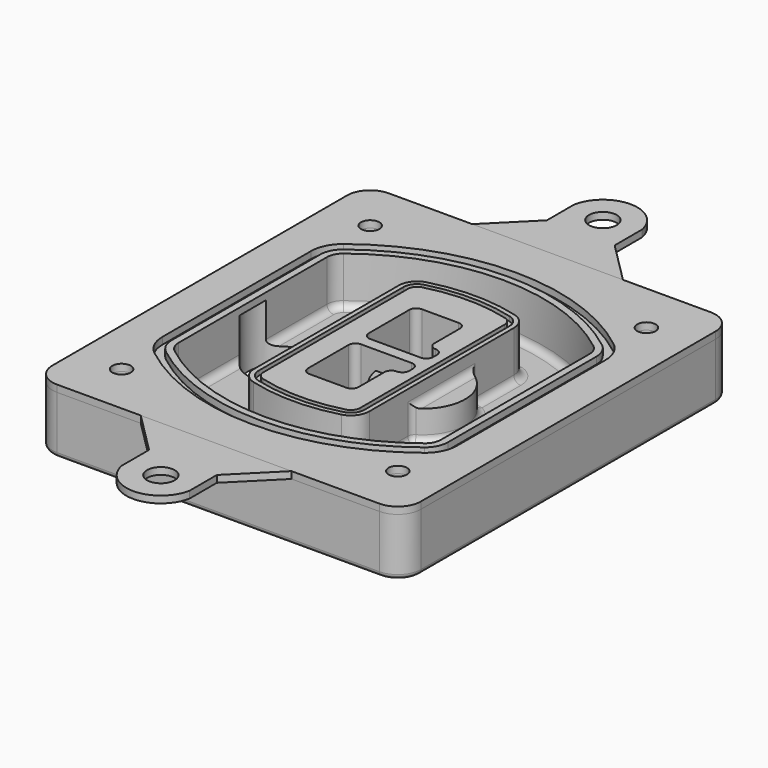
from build123d import *

# Parameters (mm, degrees)
F0_R      = 4
F1_DEPTH  = 25
F2_DEPTH  = 3
F3_DEPTH  = 18
F5_DEPTH  = 21
F6_DEPTH  = 2
F8_DEPTH  = 20
F9_DEPTH  = 16
F10_DEPTH = 25
F7_R      = 6
F7_R_2    = 4
F11_DEPTH = 6
F13_DEPTH = 9
F14_R     = 3
F15_R     = 2
F16_R     = 6
F17_DEPTH = 3
F18_DEPTH = 3


with BuildPart() as f1:
    # F0 (on Top) → F1 (new body)
    with BuildSketch(Plane.XY):
        with BuildLine():
            ThreePointArc((-80, -80), (-77.0710678119, -87.0710678119), (-70, -90))
            Line((-70, -90), (70, -90))
            ThreePointArc((70, -90), (77.0710678119, -87.0710678119), (80, -80))
            Line((80, -80), (80, 80))
            ThreePointArc((80, 80), (77.0710678119, 87.0710678119), (70, 90))
            Line((70, 90), (-70, 90))
            ThreePointArc((-70, 90), (-77.0710678119, 87.0710678119), (-80, 80))
            Line((-80, 80), (-80, -80))
        make_face()
        with Locations((-60, -67.5)):
            Circle(F0_R, mode=Mode.SUBTRACT)
        with Locations((60, -67.5)):
            Circle(F0_R, mode=Mode.SUBTRACT)
        with Locations((-60, 67.5)):
            Circle(F0_R, mode=Mode.SUBTRACT)
        with BuildLine():
            ThreePointArc((-64, 40.2934422872), (-62.5820384798, 46.4328484224), (-58.6153846154, 51.3286200352))
            ThreePointArc((-58.6153846154, 51.3286200352), (0, 71.5), (58.6153846154, 51.3286200352))
            ThreePointArc((58.6153846154, 51.3286200352), (62.5820384798, 46.4328484224), (64, 40.2934422872))
            Line((64, 40.2934422872), (64, -40.2934422872))
            ThreePointArc((64, -40.2934422872), (62.5820384798, -46.4328484224), (58.6153846154, -51.3286200352))
            ThreePointArc((58.6153846154, -51.3286200352), (0, -71.5), (-58.6153846154, -51.3286200352))
            ThreePointArc((-58.6153846154, -51.3286200352), (-62.5820384798, -46.4328484224), (-64, -40.2934422872))
            Line((-64, -40.2934422872), (-64, 40.2934422872))
        make_face(mode=Mode.SUBTRACT)
        with Locations((60, 67.5)):
            Circle(F0_R, mode=Mode.SUBTRACT)
        with BuildLine():
            ThreePointArc((58.6153846154, 51.3286200352), (0, 71.5), (-58.6153846154, 51.3286200352))
            ThreePointArc((-58.6153846154, 51.3286200352), (-62.5820384798, 46.4328484224), (-64, 40.2934422872))
            Line((-64, 40.2934422872), (-64, -40.2934422872))
            ThreePointArc((-64, -40.2934422872), (-62.5820384798, -46.4328484224), (-58.6153846154, -51.3286200352))
            ThreePointArc((-58.6153846154, -51.3286200352), (0, -71.5), (58.6153846154, -51.3286200352))
            ThreePointArc((58.6153846154, -51.3286200352), (62.5820384798, -46.4328484224), (64, -40.2934422872))
            Line((64, -40.2934422872), (64, 40.2934422872))
            ThreePointArc((64, 40.2934422872), (62.5820384798, 46.4328484224), (58.6153846154, 51.3286200352))
        make_face()
        with BuildLine():
            Line((-60, -40.2934422872), (-60, 40.2934422872))
            ThreePointArc((-60, 40.2934422872), (-58.9871703427, 44.6787323838), (-56.1538461538, 48.1757121072))
            ThreePointArc((-56.1538461538, 48.1757121072), (0, 67.5), (56.1538461538, 48.1757121072))
            ThreePointArc((56.1538461538, 48.1757121072), (58.9871703427, 44.6787323838), (60, 40.2934422872))
            Line((60, 40.2934422872), (60, -40.2934422872))
            ThreePointArc((60, -40.2934422872), (58.9871703427, -44.6787323838), (56.1538461538, -48.1757121072))
            ThreePointArc((56.1538461538, -48.1757121072), (0, -67.5), (-56.1538461538, -48.1757121072))
            ThreePointArc((-56.1538461538, -48.1757121072), (-58.9871703427, -44.6787323838), (-60, -40.2934422872))
        make_face(mode=Mode.SUBTRACT)
        with BuildLine():
            ThreePointArc((-56.1538461538, 48.1757121072), (-58.9871703427, 44.6787323838), (-60, 40.2934422872))
            Line((-60, 40.2934422872), (-60, -40.2934422872))
            ThreePointArc((-60, -40.2934422872), (-58.9871703427, -44.6787323838), (-56.1538461538, -48.1757121072))
            ThreePointArc((-56.1538461538, -48.1757121072), (0, -67.5), (56.1538461538, -48.1757121072))
            ThreePointArc((56.1538461538, -48.1757121072), (58.9871703427, -44.6787323838), (60, -40.2934422872))
            Line((60, -40.2934422872), (60, 40.2934422872))
            ThreePointArc((60, 40.2934422872), (58.9871703427, 44.6787323838), (56.1538461538, 48.1757121072))
            ThreePointArc((56.1538461538, 48.1757121072), (0, 67.5), (-56.1538461538, 48.1757121072))
        make_face()
        with BuildLine():
            ThreePointArc((54.3076923077, 45.8110311612), (56.2910192399, 43.3631453548), (57, 40.2934422872))
            Line((57, 40.2934422872), (57, -40.2934422872))
            ThreePointArc((57, -40.2934422872), (56.2910192399, -43.3631453548), (54.3076923077, -45.8110311612))
            ThreePointArc((54.3076923077, -45.8110311612), (0, -64.5), (-54.3076923077, -45.8110311612))
            ThreePointArc((-54.3076923077, -45.8110311612), (-56.2910192399, -43.3631453548), (-57, -40.2934422872))
            Line((-57, -40.2934422872), (-57, 40.2934422872))
            ThreePointArc((-57, 40.2934422872), (-56.2910192399, 43.3631453548), (-54.3076923077, 45.8110311612))
            ThreePointArc((-54.3076923077, 45.8110311612), (0, 64.5), (54.3076923077, 45.8110311612))
        make_face(mode=Mode.SUBTRACT)
        with BuildLine():
            Line((57, -40.2934422872), (57, 40.2934422872))
            ThreePointArc((57, 40.2934422872), (56.2910192399, 43.3631453548), (54.3076923077, 45.8110311612))
            ThreePointArc((54.3076923077, 45.8110311612), (0, 64.5), (-54.3076923077, 45.8110311612))
            ThreePointArc((-54.3076923077, 45.8110311612), (-56.2910192399, 43.3631453548), (-57, 40.2934422872))
            Line((-57, 40.2934422872), (-57, -40.2934422872))
            ThreePointArc((-57, -40.2934422872), (-56.2910192399, -43.3631453548), (-54.3076923077, -45.8110311612))
            ThreePointArc((-54.3076923077, -45.8110311612), (0, -64.5), (54.3076923077, -45.8110311612))
            ThreePointArc((54.3076923077, -45.8110311612), (56.2910192399, -43.3631453548), (57, -40.2934422872))
        make_face()
    extrude(amount=-F1_DEPTH)

    # F0 (on Top) → F2 (join)
    with BuildSketch(Plane.XY):
        with BuildLine():
            ThreePointArc((-56.1538461538, 48.1757121072), (-58.9871703427, 44.6787323838), (-60, 40.2934422872))
            Line((-60, 40.2934422872), (-60, -40.2934422872))
            ThreePointArc((-60, -40.2934422872), (-58.9871703427, -44.6787323838), (-56.1538461538, -48.1757121072))
            ThreePointArc((-56.1538461538, -48.1757121072), (0, -67.5), (56.1538461538, -48.1757121072))
            ThreePointArc((56.1538461538, -48.1757121072), (58.9871703427, -44.6787323838), (60, -40.2934422872))
            Line((60, -40.2934422872), (60, 40.2934422872))
            ThreePointArc((60, 40.2934422872), (58.9871703427, 44.6787323838), (56.1538461538, 48.1757121072))
            ThreePointArc((56.1538461538, 48.1757121072), (0, 67.5), (-56.1538461538, 48.1757121072))
        make_face()
        with BuildLine():
            ThreePointArc((54.3076923077, 45.8110311612), (56.2910192399, 43.3631453548), (57, 40.2934422872))
            Line((57, 40.2934422872), (57, -40.2934422872))
            ThreePointArc((57, -40.2934422872), (56.2910192399, -43.3631453548), (54.3076923077, -45.8110311612))
            ThreePointArc((54.3076923077, -45.8110311612), (0, -64.5), (-54.3076923077, -45.8110311612))
            ThreePointArc((-54.3076923077, -45.8110311612), (-56.2910192399, -43.3631453548), (-57, -40.2934422872))
            Line((-57, -40.2934422872), (-57, 40.2934422872))
            ThreePointArc((-57, 40.2934422872), (-56.2910192399, 43.3631453548), (-54.3076923077, 45.8110311612))
            ThreePointArc((-54.3076923077, 45.8110311612), (0, 64.5), (54.3076923077, 45.8110311612))
        make_face(mode=Mode.SUBTRACT)
    extrude(amount=F2_DEPTH)

    # F0 (on Top) → F3 (cut)
    with BuildSketch(Plane.XY):
        with BuildLine():
            Line((57, -40.2934422872), (57, 40.2934422872))
            ThreePointArc((57, 40.2934422872), (56.2910192399, 43.3631453548), (54.3076923077, 45.8110311612))
            ThreePointArc((54.3076923077, 45.8110311612), (0, 64.5), (-54.3076923077, 45.8110311612))
            ThreePointArc((-54.3076923077, 45.8110311612), (-56.2910192399, 43.3631453548), (-57, 40.2934422872))
            Line((-57, 40.2934422872), (-57, -40.2934422872))
            ThreePointArc((-57, -40.2934422872), (-56.2910192399, -43.3631453548), (-54.3076923077, -45.8110311612))
            ThreePointArc((-54.3076923077, -45.8110311612), (0, -64.5), (54.3076923077, -45.8110311612))
            ThreePointArc((54.3076923077, -45.8110311612), (56.2910192399, -43.3631453548), (57, -40.2934422872))
        make_face()
    extrude(amount=-F3_DEPTH, mode=Mode.SUBTRACT)

    # F4 (on face) → F5 (join, through all)
    with BuildSketch(Plane.XY.offset(3)):
        with BuildLine():
            ThreePointArc((-25, -39.2465276821), (-23.3511545998, -44.1109737193), (-19.0842911877, -46.9702398883))
            ThreePointArc((-19.0842911877, -46.9702398883), (0, -49.5), (19.0842911877, -46.9702398883))
            ThreePointArc((19.0842911877, -46.9702398883), (23.3511545998, -44.1109737193), (25, -39.2465276821))
            Line((25, -39.2465276821), (25, 39.2465276821))
            ThreePointArc((25, 39.2465276821), (23.3511545998, 44.1109737193), (19.0842911877, 46.9702398883))
            ThreePointArc((19.0842911877, 46.9702398883), (0, 49.5), (-19.0842911877, 46.9702398883))
            ThreePointArc((-19.0842911877, 46.9702398883), (-23.3511545998, 44.1109737193), (-25, 39.2465276821))
            Line((-25, 39.2465276821), (-25, -39.2465276821))
        make_face()
        with BuildLine():
            ThreePointArc((18.5632183908, 45.0393118368), (21.7633659499, 42.89486221), (23, 39.2465276821))
            Line((23, 39.2465276821), (23, -39.2465276821))
            ThreePointArc((23, -39.2465276821), (21.7633659499, -42.89486221), (18.5632183908, -45.0393118368))
            ThreePointArc((18.5632183908, -45.0393118368), (0, -47.5), (-18.5632183908, -45.0393118368))
            ThreePointArc((-18.5632183908, -45.0393118368), (-21.7633659499, -42.89486221), (-23, -39.2465276821))
            Line((-23, -39.2465276821), (-23, 39.2465276821))
            ThreePointArc((-23, 39.2465276821), (-21.7633659499, 42.89486221), (-18.5632183908, 45.0393118368))
            ThreePointArc((-18.5632183908, 45.0393118368), (0, 47.5), (18.5632183908, 45.0393118368))
        make_face(mode=Mode.SUBTRACT)
        with BuildLine():
            Line((23, -39.2465276821), (23, 39.2465276821))
            ThreePointArc((23, 39.2465276821), (21.7633659499, 42.89486221), (18.5632183908, 45.0393118368))
            ThreePointArc((18.5632183908, 45.0393118368), (0, 47.5), (-18.5632183908, 45.0393118368))
            ThreePointArc((-18.5632183908, 45.0393118368), (-21.7633659499, 42.89486221), (-23, 39.2465276821))
            Line((-23, 39.2465276821), (-23, -39.2465276821))
            ThreePointArc((-23, -39.2465276821), (-21.7633659499, -42.89486221), (-18.5632183908, -45.0393118368))
            ThreePointArc((-18.5632183908, -45.0393118368), (0, -47.5), (18.5632183908, -45.0393118368))
            ThreePointArc((18.5632183908, -45.0393118368), (21.7633659499, -42.89486221), (23, -39.2465276821))
        make_face()
        with BuildLine():
            ThreePointArc((18.0421455939, 43.1083837852), (20.1755772999, 41.6787507007), (21, 39.2465276821))
            Line((21, 39.2465276821), (21, -39.2465276821))
            ThreePointArc((21, -39.2465276821), (20.1755772999, -41.6787507007), (18.0421455939, -43.1083837852))
            ThreePointArc((18.0421455939, -43.1083837852), (0, -45.5), (-18.0421455939, -43.1083837852))
            ThreePointArc((-18.0421455939, -43.1083837852), (-20.1755772999, -41.6787507007), (-21, -39.2465276821))
            Line((-21, -39.2465276821), (-21, 39.2465276821))
            ThreePointArc((-21, 39.2465276821), (-20.1755772999, 41.6787507007), (-18.0421455939, 43.1083837852))
            ThreePointArc((-18.0421455939, 43.1083837852), (0, 45.5), (18.0421455939, 43.1083837852))
        make_face(mode=Mode.SUBTRACT)
        with BuildLine():
            Line((21, -39.2465276821), (21, 39.2465276821))
            ThreePointArc((21, 39.2465276821), (20.1755772999, 41.6787507007), (18.0421455939, 43.1083837852))
            ThreePointArc((18.0421455939, 43.1083837852), (0, 45.5), (-18.0421455939, 43.1083837852))
            ThreePointArc((-18.0421455939, 43.1083837852), (-20.1755772999, 41.6787507007), (-21, 39.2465276821))
            Line((-21, 39.2465276821), (-21, -39.2465276821))
            ThreePointArc((-21, -39.2465276821), (-20.1755772999, -41.6787507007), (-18.0421455939, -43.1083837852))
            ThreePointArc((-18.0421455939, -43.1083837852), (0, -45.5), (18.0421455939, -43.1083837852))
            ThreePointArc((18.0421455939, -43.1083837852), (20.1755772999, -41.6787507007), (21, -39.2465276821))
        make_face()
        with BuildLine():
            Line((-8, -2.5), (14, -2.5))
            ThreePointArc((14, -2.5), (16.1213203436, -3.3786796564), (17, -5.5))
            Line((17, -5.5), (17, -7.5))
            ThreePointArc((17, -7.5), (16.1213203436, -9.6213203436), (14, -10.5))
            ThreePointArc((14, -10.5), (11.8786796564, -11.3786796564), (11, -13.5))
            Line((11, -13.5), (11, -27.5))
            ThreePointArc((11, -27.5), (10.1213203436, -29.6213203436), (8, -30.5))
            Line((8, -30.5), (-8, -30.5))
            ThreePointArc((-8, -30.5), (-10.1213203436, -29.6213203436), (-11, -27.5))
            Line((-11, -27.5), (-11, -5.5))
            ThreePointArc((-11, -5.5), (-10.1213203436, -3.3786796564), (-8, -2.5))
        make_face(mode=Mode.SUBTRACT)
        with BuildLine():
            ThreePointArc((-8, 2.5), (-10.1213203436, 3.3786796564), (-11, 5.5))
            Line((-11, 5.5), (-11, 27.5))
            ThreePointArc((-11, 27.5), (-10.1213203436, 29.6213203436), (-8, 30.5))
            Line((-8, 30.5), (8, 30.5))
            ThreePointArc((8, 30.5), (10.1213203436, 29.6213203436), (11, 27.5))
            Line((11, 27.5), (11, 13.5))
            ThreePointArc((11, 13.5), (11.8786796564, 11.3786796564), (14, 10.5))
            ThreePointArc((14, 10.5), (16.1213203436, 9.6213203436), (17, 7.5))
            Line((17, 7.5), (17, 5.5))
            ThreePointArc((17, 5.5), (16.1213203436, 3.3786796564), (14, 2.5))
            Line((14, 2.5), (-8, 2.5))
        make_face(mode=Mode.SUBTRACT)
    extrude(amount=-F5_DEPTH)

    # F4 (on face) → F6 (cut)
    with BuildSketch(Plane.XY.offset(3)):
        with BuildLine():
            Line((23, -39.2465276821), (23, 39.2465276821))
            ThreePointArc((23, 39.2465276821), (21.7633659499, 42.89486221), (18.5632183908, 45.0393118368))
            ThreePointArc((18.5632183908, 45.0393118368), (0, 47.5), (-18.5632183908, 45.0393118368))
            ThreePointArc((-18.5632183908, 45.0393118368), (-21.7633659499, 42.89486221), (-23, 39.2465276821))
            Line((-23, 39.2465276821), (-23, -39.2465276821))
            ThreePointArc((-23, -39.2465276821), (-21.7633659499, -42.89486221), (-18.5632183908, -45.0393118368))
            ThreePointArc((-18.5632183908, -45.0393118368), (0, -47.5), (18.5632183908, -45.0393118368))
            ThreePointArc((18.5632183908, -45.0393118368), (21.7633659499, -42.89486221), (23, -39.2465276821))
        make_face()
        with BuildLine():
            ThreePointArc((18.0421455939, 43.1083837852), (20.1755772999, 41.6787507007), (21, 39.2465276821))
            Line((21, 39.2465276821), (21, -39.2465276821))
            ThreePointArc((21, -39.2465276821), (20.1755772999, -41.6787507007), (18.0421455939, -43.1083837852))
            ThreePointArc((18.0421455939, -43.1083837852), (0, -45.5), (-18.0421455939, -43.1083837852))
            ThreePointArc((-18.0421455939, -43.1083837852), (-20.1755772999, -41.6787507007), (-21, -39.2465276821))
            Line((-21, -39.2465276821), (-21, 39.2465276821))
            ThreePointArc((-21, 39.2465276821), (-20.1755772999, 41.6787507007), (-18.0421455939, 43.1083837852))
            ThreePointArc((-18.0421455939, 43.1083837852), (0, 45.5), (18.0421455939, 43.1083837852))
        make_face(mode=Mode.SUBTRACT)
    extrude(amount=-F6_DEPTH, mode=Mode.SUBTRACT)

    # F7 (on face) → F8 (join)
    with BuildSketch(Plane(origin=(0, 0, -25), x_dir=(1, 0, 0), z_dir=(0, 0, -1))):
        with BuildLine():
            ThreePointArc((3.28842436, 0), (16.7567035675, 13.4682792075), (30.224982775, 0))
            Line((30.224982775, 0), (35.224982775, 0))
            ThreePointArc((35.224982775, 0), (16.7567035675, 18.4682792075), (-1.71157564, 0))
            Line((-1.71157564, 0), (3.28842436, 0))
        make_face()
        with BuildLine():
            Line((3.28842436, 0), (30.224982775, 0))
            ThreePointArc((30.224982775, 0), (16.7567035675, 13.4682792075), (3.28842436, 0))
        make_face()
        with BuildLine():
            ThreePointArc((3.28842436, 0), (16.7567035675, -13.4682792075), (30.224982775, 0))
            Line((30.224982775, 0), (3.28842436, 0))
        make_face()
        with BuildLine():
            Line((35.224982775, 0), (30.224982775, 0))
            ThreePointArc((30.224982775, 0), (16.7567035675, -13.4682792075), (3.28842436, 0))
            Line((3.28842436, 0), (-1.71157564, 0))
            ThreePointArc((-1.71157564, 0), (16.7567035675, -18.4682792075), (35.224982775, 0))
        make_face()
    extrude(amount=-F8_DEPTH)

    # F7 (on face) → F9 (cut)
    with BuildSketch(Plane(origin=(0, 0, -25), x_dir=(1, 0, 0), z_dir=(0, 0, -1))):
        with BuildLine():
            Line((3.28842436, 0), (30.224982775, 0))
            ThreePointArc((30.224982775, 0), (16.7567035675, 13.4682792075), (3.28842436, 0))
        make_face()
        with BuildLine():
            ThreePointArc((3.28842436, 0), (16.7567035675, -13.4682792075), (30.224982775, 0))
            Line((30.224982775, 0), (3.28842436, 0))
        make_face()
    extrude(amount=-F9_DEPTH, mode=Mode.SUBTRACT)

    # F7 (on face) → F10 (cut)
    with BuildSketch(Plane(origin=(0, 0, -25), x_dir=(1, 0, 0), z_dir=(0, 0, -1))):
        with BuildLine():
            Line((-59.0318229325, 0), (-32.0952645175, 0))
            ThreePointArc((-32.0952645175, 0), (-45.563543725, 13.4682792075), (-59.0318229325, 0))
        make_face()
        with BuildLine():
            ThreePointArc((-59.0318229325, 0), (-45.563543725, -13.4682792075), (-32.0952645175, 0))
            Line((-32.0952645175, 0), (-59.0318229325, 0))
        make_face()
    extrude(amount=-F10_DEPTH, mode=Mode.SUBTRACT)

    # F7 (on face) → F11 (cut)
    with BuildSketch(Plane(origin=(0, 0, -25), x_dir=(1, 0, 0), z_dir=(0, 0, -1))):
        with Locations((60, -67.5)):
            Circle(F7_R)
        with Locations((60, -67.5)):
            Circle(F7_R_2, mode=Mode.SUBTRACT)
        with Locations((60, -67.5)):
            Circle(F7_R)
        with Locations((60, -67.5)):
            Circle(F7_R_2, mode=Mode.SUBTRACT)
        with Locations((-60, -67.5)):
            Circle(F7_R)
        with Locations((-60, -67.5)):
            Circle(F7_R_2, mode=Mode.SUBTRACT)
        with Locations((-60, -67.5)):
            Circle(F7_R)
        with Locations((-60, -67.5)):
            Circle(F7_R_2, mode=Mode.SUBTRACT)
        with Locations((-60, 67.5)):
            Circle(F7_R)
        with Locations((-60, 67.5)):
            Circle(F7_R_2, mode=Mode.SUBTRACT)
        with Locations((-60, 67.5)):
            Circle(F7_R)
        with Locations((-60, 67.5)):
            Circle(F7_R_2, mode=Mode.SUBTRACT)
        with Locations((60, 67.5)):
            Circle(F7_R)
        with Locations((60, 67.5)):
            Circle(F7_R_2, mode=Mode.SUBTRACT)
        with Locations((60, 67.5)):
            Circle(F7_R)
        with Locations((60, 67.5)):
            Circle(F7_R_2, mode=Mode.SUBTRACT)
    extrude(amount=-F11_DEPTH, mode=Mode.SUBTRACT)

    # F12 (on face) → F13 (cut, through all)
    with BuildSketch(Plane(origin=(0, 0, -9), x_dir=(1, 0, 0), z_dir=(0, 0, -1))):
        with BuildLine():
            Line((11, 13.5), (11, 17.5481537753))
            ThreePointArc((11, 17.5481537753), (2.5696536419, 11.8239143813), (-1.5415842455, 2.5))
            Line((-1.5415842455, 2.5), (3.5224848595, 2.5))
            ThreePointArc((3.5224848595, 2.5), (6.1857188154, 8.3455872281), (11.2536447004, 12.2927168648))
            ThreePointArc((11.2536447004, 12.2927168648), (11.0640958889, 12.8831798879), (11, 13.5))
        make_face()
        with BuildLine():
            ThreePointArc((11.2536447004, -12.2927168648), (6.1857188154, -8.3455872281), (3.5224848595, -2.5))
            Line((3.5224848595, -2.5), (-1.5415842455, -2.5))
            ThreePointArc((-1.5415842455, -2.5), (2.5696536419, -11.8239143813), (11, -17.5481537753))
            Line((11, -17.5481537753), (11, -13.5))
            ThreePointArc((11, -13.5), (11.0640958889, -12.8831798879), (11.2536447004, -12.2927168648))
        make_face()
        with BuildLine():
            ThreePointArc((11.2536447004, 12.2927168648), (6.1857188154, 8.3455872281), (3.5224848595, 2.5))
            Line((3.5224848595, 2.5), (14, 2.5))
            ThreePointArc((14, 2.5), (16.1213203436, 3.3786796564), (17, 5.5))
            Line((17, 5.5), (17, 7.5))
            ThreePointArc((17, 7.5), (16.1213203436, 9.6213203436), (14, 10.5))
            ThreePointArc((14, 10.5), (12.3601599782, 10.9878446101), (11.2536447004, 12.2927168648))
        make_face()
        with BuildLine():
            Line((14, -2.5), (3.5224848595, -2.5))
            ThreePointArc((3.5224848595, -2.5), (6.1857188154, -8.3455872281), (11.2536447004, -12.2927168648))
            ThreePointArc((11.2536447004, -12.2927168648), (12.3601599782, -10.9878446101), (14, -10.5))
            ThreePointArc((14, -10.5), (16.1213203436, -9.6213203436), (17, -7.5))
            Line((17, -7.5), (17, -5.5))
            ThreePointArc((17, -5.5), (16.1213203436, -3.3786796564), (14, -2.5))
        make_face()
    extrude(amount=F13_DEPTH, mode=Mode.SUBTRACT)

    # F14
    f14_edges = [f1.edges().sort_by_distance(p)[0] for p in [
        (-57, -23.703476, -18),
        (-57, 23.703476, -18),
        (25, 0, -5),
        (25, 16.526506, -11.5),
        (25, -16.526506, -11.5),
        (25, -27.886517, -18),
        (35.224983, 0, -18),
    ]]
    fillet(f14_edges, radius=F14_R)

    # F15
    f15_edges = [f1.edges().sort_by_distance(p)[0] for p in [
        (0, -90, -25),
    ]]
    fillet(f15_edges, radius=F15_R)


with BuildPart() as f17:
    # F16 (on face) → F17 (new body, through all)
    with BuildSketch(Plane.XY):
        with BuildLine():
            Line((-15.6528792977, 108), (-33.6528792977, 90))
            Line((-33.6528792977, 90), (31.795463926, 90))
            Line((31.795463926, 90), (13.795463926, 108))
            Line((13.795463926, 108), (13.795463926, 122.8633494973))
            ThreePointArc((13.795463926, 122.8633494973), (-0.9287076858, 135), (-15.6528792977, 122.8633494973))
            Line((-15.6528792977, 122.8633494973), (-15.6528792977, 108))
        make_face()
        with Locations((-0.9287076858, 120)):
            Circle(F16_R, mode=Mode.SUBTRACT)
    extrude(amount=F17_DEPTH)


with BuildPart() as f17b:
    # F16 (on face) → F17, piece 2 (new body, through all)
    with BuildSketch(Plane.XY):
        with BuildLine():
            Line((-33.6528792977, -90), (-15.6528792977, -108))
            Line((-15.6528792977, -108), (-15.6528792977, -122.8633494973))
            ThreePointArc((-15.6528792977, -122.8633494973), (-0.9287076858, -135), (13.795463926, -122.8633494973))
            Line((13.795463926, -122.8633494973), (13.795463926, -108))
            Line((13.795463926, -108), (31.795463926, -90))
            Line((31.795463926, -90), (-33.6528792977, -90))
        make_face()
        with Locations((-0.9287076858, -120)):
            Circle(F16_R, mode=Mode.SUBTRACT)
    extrude(amount=F17_DEPTH)


with BuildPart() as f18:
    # F0 (on Top) → F18 (new body, through all)
    with BuildSketch(Plane.XY):
        with BuildLine():
            ThreePointArc((-80, -80), (-77.0710678119, -87.0710678119), (-70, -90))
            Line((-70, -90), (70, -90))
            ThreePointArc((70, -90), (77.0710678119, -87.0710678119), (80, -80))
            Line((80, -80), (80, 80))
            ThreePointArc((80, 80), (77.0710678119, 87.0710678119), (70, 90))
            Line((70, 90), (-70, 90))
            ThreePointArc((-70, 90), (-77.0710678119, 87.0710678119), (-80, 80))
            Line((-80, 80), (-80, -80))
        make_face()
        with Locations((-60, -67.5)):
            Circle(F0_R, mode=Mode.SUBTRACT)
        with Locations((60, -67.5)):
            Circle(F0_R, mode=Mode.SUBTRACT)
        with Locations((-60, 67.5)):
            Circle(F0_R, mode=Mode.SUBTRACT)
        with BuildLine():
            ThreePointArc((-64, 40.2934422872), (-62.5820384798, 46.4328484224), (-58.6153846154, 51.3286200352))
            ThreePointArc((-58.6153846154, 51.3286200352), (0, 71.5), (58.6153846154, 51.3286200352))
            ThreePointArc((58.6153846154, 51.3286200352), (62.5820384798, 46.4328484224), (64, 40.2934422872))
            Line((64, 40.2934422872), (64, -40.2934422872))
            ThreePointArc((64, -40.2934422872), (62.5820384798, -46.4328484224), (58.6153846154, -51.3286200352))
            ThreePointArc((58.6153846154, -51.3286200352), (0, -71.5), (-58.6153846154, -51.3286200352))
            ThreePointArc((-58.6153846154, -51.3286200352), (-62.5820384798, -46.4328484224), (-64, -40.2934422872))
            Line((-64, -40.2934422872), (-64, 40.2934422872))
        make_face(mode=Mode.SUBTRACT)
        with Locations((60, 67.5)):
            Circle(F0_R, mode=Mode.SUBTRACT)
    extrude(amount=F18_DEPTH)


solid = Compound([f1.part, f17.part, f17b.part, f18.part])
